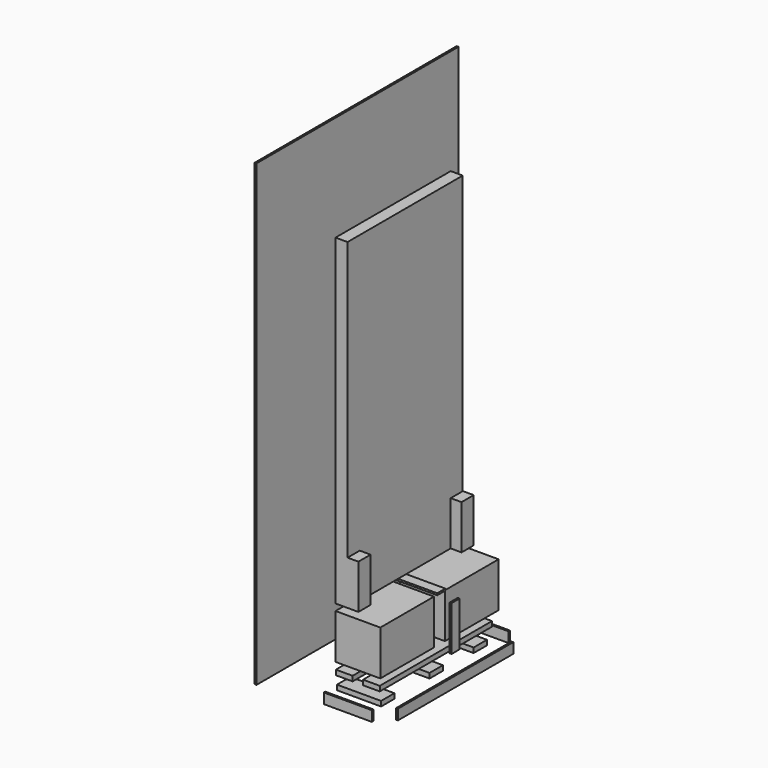
from build123d import *

# Parameters (mm, degrees)
BOX002_W     = 124.5
BOX002_H     = 83
BOX002_DEPTH = 241
BOX_W        = 124.5
BOX_H        = 83
BOX_DEPTH    = 241
BOX003_W     = 65.5
BOX003_H     = 619
BOX003_DEPTH = 241
BOX001_W     = 65.5
BOX001_H     = 784
BOX001_DEPTH = 1513
BOX004_W     = 91
BOX004_H     = 764
BOX004_DEPTH = 27
BOX005_W     = 91
BOX005_H     = 764
BOX005_DEPTH = 27
BOX006_W     = 244
BOX006_H     = 365
BOX006_DEPTH = 244
BOX007_W     = 240
BOX007_H     = 91
BOX007_DEPTH = 27
BOX008_W     = 240
BOX008_H     = 91
BOX008_DEPTH = 27
BOX009_W     = 240
BOX009_H     = 91
BOX009_DEPTH = 27
BOX010_W     = 244
BOX010_H     = 365
BOX010_DEPTH = 244
BOX011_W     = 10
BOX011_H     = 1375
BOX011_DEPTH = 2500
BOX012_W     = 20
BOX012_H     = 80
BOX012_DEPTH = 80
BOX013_W     = 20
BOX013_H     = 80
BOX013_DEPTH = 80
BOX014_W     = 262
BOX014_H     = 10
BOX014_DEPTH = 56
BOX015_W     = 262
BOX015_H     = 10
BOX015_DEPTH = 56
BOX016_W     = 10
BOX016_H     = 785
BOX016_DEPTH = 56
BOX018_W     = 10
BOX018_H     = 55
BOX018_DEPTH = 244
BOX019_W     = 262
BOX019_H     = 55
BOX019_DEPTH = 10


with BuildPart() as sockelrechts:
    # Box002 → Box002 (new body)
    with BuildSketch(Plane(origin=(0, 702, 0), x_dir=(1, 0, 0), z_dir=(0, 0, 1))):
        with Locations((62.25, 41.5)):
            Rectangle(BOX002_W, BOX002_H)
    extrude(amount=BOX002_DEPTH)


with BuildPart() as sockellinks:
    # Box → Box (new body)
    with BuildSketch(Plane.XY):
        with Locations((62.25, 41.5)):
            Rectangle(BOX_W, BOX_H)
    extrude(amount=BOX_DEPTH)


with BuildPart() as obj1:
    # Box003 → Box003 (new body)
    with BuildSketch(Plane(origin=(0, 83, 0), x_dir=(1, 0, 0), z_dir=(0, 0, 1))):
        with Locations((32.75, 309.5)):
            Rectangle(BOX003_W, BOX003_H)
    extrude(amount=BOX003_DEPTH)


with BuildPart() as obj2:
    # Box001 → Box001 (new body)
    with BuildSketch(Plane.XY.offset(241)):
        with Locations((32.75, 392)):
            Rectangle(BOX001_W, BOX001_H)
    extrude(amount=BOX001_DEPTH)

    # Connect: union obj1
    add(obj1.part)

    # Connect001: union SockelRechts, SockelLinks
    add(sockelrechts.part)
    add(sockellinks.part)


with BuildPart() as obj3:
    # Box004 → Box004 (new body)
    with BuildSketch(Plane(origin=(142, 10, -350), x_dir=(1, 0, 0), z_dir=(0, 0, 1))):
        with Locations((45.5, 382)):
            Rectangle(BOX004_W, BOX004_H)
    extrude(amount=BOX004_DEPTH)


with BuildPart() as obj4:
    # Box005 → Box005 (new body)
    with BuildSketch(Plane(origin=(-6, 10, -350), x_dir=(1, 0, 0), z_dir=(0, 0, 1))):
        with Locations((45.5, 382)):
            Rectangle(BOX005_W, BOX005_H)
    extrude(amount=BOX005_DEPTH)


with BuildPart() as obj5:
    # Box006 → Box006 (new body)
    with BuildSketch(Plane.XY.offset(-280)):
        with Locations((122, 182.5)):
            Rectangle(BOX006_W, BOX006_H)
    extrude(amount=BOX006_DEPTH)


with BuildPart() as box007:
    # Box007 → Box007 (new body)
    with BuildSketch(Plane(origin=(0, 10, -420), x_dir=(1, 0, 0), z_dir=(0, 0, 1))):
        with Locations((120, 45.5)):
            Rectangle(BOX007_W, BOX007_H)
    extrude(amount=BOX007_DEPTH)


with BuildPart() as box008:
    # Box008 → Box008 (new body)
    with BuildSketch(Plane(origin=(0, 340, -420), x_dir=(1, 0, 0), z_dir=(0, 0, 1))):
        with Locations((120, 45.5)):
            Rectangle(BOX008_W, BOX008_H)
    extrude(amount=BOX008_DEPTH)


with BuildPart() as box009:
    # Box009 → Box009 (new body)
    with BuildSketch(Plane(origin=(0, 640, -420), x_dir=(1, 0, 0), z_dir=(0, 0, 1))):
        with Locations((120, 45.5)):
            Rectangle(BOX009_W, BOX009_H)
    extrude(amount=BOX009_DEPTH)


with BuildPart() as obj6:
    # Box010 → Box010 (new body)
    with BuildSketch(Plane(origin=(0, 440, -280), x_dir=(1, 0, 0), z_dir=(0, 0, 1))):
        with Locations((122, 182.5)):
            Rectangle(BOX010_W, BOX010_H)
    extrude(amount=BOX010_DEPTH)


with BuildPart() as wand:
    # Box011 → Box011 (new body)
    with BuildSketch(Plane(origin=(-200, -300, -330), x_dir=(1, 0, 0), z_dir=(0, 0, 1))):
        with Locations((5, 687.5)):
            Rectangle(BOX011_W, BOX011_H)
    extrude(amount=BOX011_DEPTH)


with BuildPart() as obj7:
    # Box012 → Box012 (new body)
    with BuildSketch(Plane(origin=(-200, 320, 350), x_dir=(1, 0, 0), z_dir=(0, 0, 1))):
        with Locations((10, 40)):
            Rectangle(BOX012_W, BOX012_H)
    extrude(amount=BOX012_DEPTH)


with BuildPart() as obj8:
    # Box013 → Box013 (new body)
    with BuildSketch(Plane(origin=(-200, 450, 350), x_dir=(1, 0, 0), z_dir=(0, 0, 1))):
        with Locations((10, 40)):
            Rectangle(BOX013_W, BOX013_H)
    extrude(amount=BOX013_DEPTH)


with BuildPart() as bodenleistelinks:
    # Box014 → Box014 (new body)
    with BuildSketch(Plane(origin=(0, -80, -450), x_dir=(1, 0, 0), z_dir=(0, 0, 1))):
        with Locations((131, 5)):
            Rectangle(BOX014_W, BOX014_H)
    extrude(amount=BOX014_DEPTH)


with BuildPart() as bodenleisterechts:
    # Box015 → Box015 (new body)
    with BuildSketch(Plane(origin=(0, 850, -450), x_dir=(1, 0, 0), z_dir=(0, 0, 1))):
        with Locations((131, 5)):
            Rectangle(BOX015_W, BOX015_H)
    extrude(amount=BOX015_DEPTH)


with BuildPart() as bodenleistefront:
    # Box016 → Box016 (new body)
    with BuildSketch(Plane(origin=(330, 0, -450), x_dir=(1, 0, 0), z_dir=(0, 0, 1))):
        with Locations((5, 392.5)):
            Rectangle(BOX016_W, BOX016_H)
    extrude(amount=BOX016_DEPTH)


with BuildPart() as obj9:
    # Box018 → Box018 (new body)
    with BuildSketch(Plane(origin=(330, 365, -280), x_dir=(1, 0, 0), z_dir=(0, 0, 1))):
        with Locations((5, 27.5)):
            Rectangle(BOX018_W, BOX018_H)
    extrude(amount=BOX018_DEPTH)


with BuildPart() as obj10:
    # Box019 → Box019 (new body)
    with BuildSketch(Plane(origin=(0, 365, -24), x_dir=(1, 0, 0), z_dir=(0, 0, 1))):
        with Locations((131, 27.5)):
            Rectangle(BOX019_W, BOX019_H)
    extrude(amount=BOX019_DEPTH)


solid = Compound([obj2.part, obj3.part, obj4.part, obj5.part, box007.part, box008.part, box009.part, obj6.part, wand.part, obj7.part, obj8.part, bodenleistelinks.part, bodenleisterechts.part, bodenleistefront.part, obj9.part, obj10.part])
